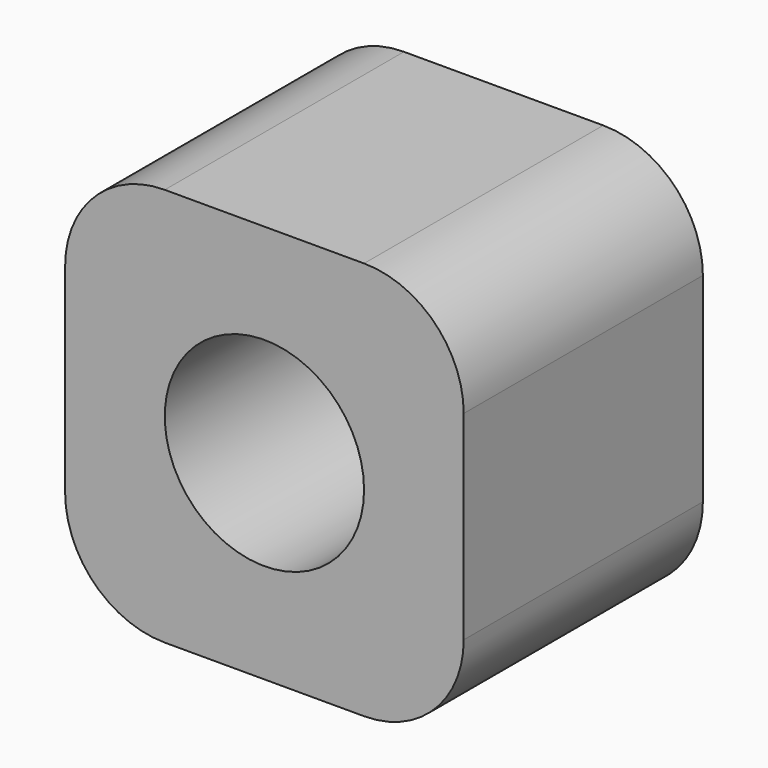
from build123d import *

# Parameters (mm, degrees)
F0_R     = 25.4
F1_DEPTH = 76.2


with BuildPart() as f1:
    # F0 (on Front) → F1 (new body)
    with BuildSketch(Plane.XZ):
        with BuildLine():
            Line((20.019212, 88.766317), (-30.780788, 88.766317))
            ThreePointArc((-30.780788, 88.766317), (-48.7413, 81.326829), (-56.180788, 63.366317))
            Line((-56.180788, 63.366317), (-56.180788, 12.566317))
            ThreePointArc((-56.180788, 12.566317), (-48.7413, -5.394195), (-30.780788, -12.833683))
            Line((-30.780788, -12.833683), (20.019212, -12.833683))
            ThreePointArc((20.019212, -12.833683), (37.979725, -5.394195), (45.419212, 12.566317))
            Line((45.419212, 12.566317), (45.419212, 63.366317))
            ThreePointArc((45.419212, 63.366317), (37.979725, 81.326829), (20.019212, 88.766317))
        make_face()
        with Locations((-5.380788, 37.966317)):
            Circle(F0_R, mode=Mode.SUBTRACT)
    extrude(amount=F1_DEPTH)


solid = f1.part
